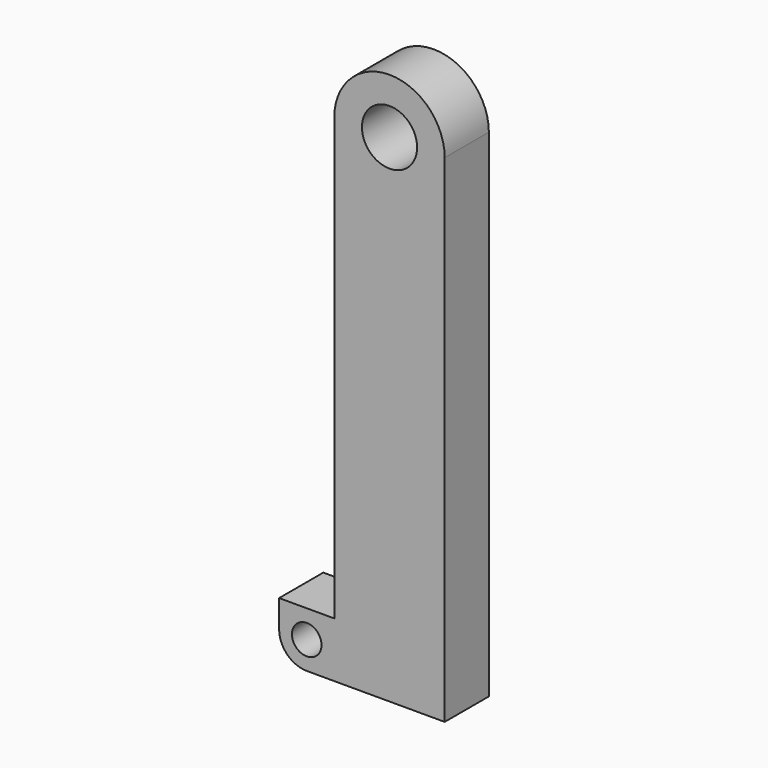
from build123d import *

# Parameters (mm, degrees)
F0_R     = 1.27
F1_DEPTH = 2.54
F2_W     = 2.54
F2_H     = 5.08
F3_DEPTH = 2.54
F4_W     = 2.54
F4_H     = 2.54
F4_R     = 0.680019
F5_DEPTH = 25.4


with BuildPart() as f1:
    # F0 (on Front) → F1 (new body)
    with BuildSketch(Plane.XZ):
        with BuildLine():
            ThreePointArc((-32.792888, 1.933751), (-35.332888, 4.468064), (-37.872888, 1.933751))
            Line((-37.872888, 1.933751), (-37.872888, -20.926249))
            Line((-37.872888, -20.926249), (-32.792888, -20.926249))
            Line((-32.792888, -20.926249), (-32.792888, 1.933751))
        make_face()
        with Locations((-35.332888, 1.933751)):
            Circle(F0_R, mode=Mode.SUBTRACT)
    extrude(amount=F1_DEPTH)

    # F2 (on face) → F3 (join)
    with BuildSketch(Plane(origin=(-37.872888, 0, 0), x_dir=(0, -1, 0), z_dir=(-1, 0, 0))):
        with Locations((1.27, -18.386249)):
            Rectangle(F2_W, F2_H)
    extrude(amount=F3_DEPTH)

    # F4 (on face) → F5 (cut)
    with BuildSketch(Plane.XZ.offset(2.54)):
        with Locations((-39.142888, -17.116249)):
            Rectangle(F4_W, F4_H)
        with Locations((-39.142888, -19.656249)):
            Circle(F4_R)
        with BuildLine():
            ThreePointArc((-39.142888, -20.926249), (-40.040536, -20.553897), (-40.412888, -19.656249))
            Line((-40.412888, -19.656249), (-40.412888, -20.926249))
            Line((-40.412888, -20.926249), (-39.142888, -20.926249))
        make_face()
    extrude(amount=-F5_DEPTH, mode=Mode.SUBTRACT)


solid = f1.part
